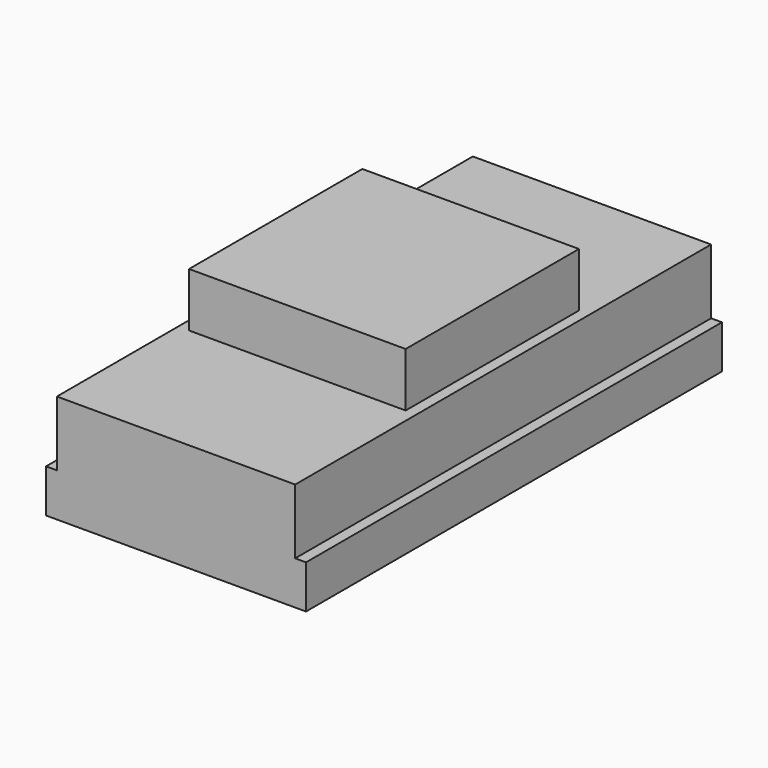
from build123d import *

# Parameters (mm, degrees)
SKETCH_W             = 1219.2
SKETCH_H             = 609.6
PAD_DEPTH            = 101.6
SKETCH001_W          = 1219.2
SKETCH001_H          = 558.8
PAD001_DEPTH         = 152.4
SKETCH002_W          = 508
SKETCH002_H          = 508
PAD002_DEPTH         = 127
BODY_PLACEMENT_ANGLE = 90


with BuildPart() as part:
    # Sketch → Pad (new body)
    with BuildSketch(Plane.XY):
        with Locations((609.6, 304.8)):
            Rectangle(SKETCH_W, SKETCH_H)
    extrude(amount=PAD_DEPTH)

    # Sketch001 (on Face6 of Pad) → Pad001 (join)
    with BuildSketch(Plane.XY.offset(101.6)):
        with Locations((609.6, 304.8)):
            Rectangle(SKETCH001_W, SKETCH001_H)
    extrude(amount=PAD001_DEPTH)

    # Sketch002 (on Face12 of Pad001) → Pad002 (join)
    with BuildSketch(Plane.XY.offset(254)):
        with Locations((609.6, 304.8)):
            Rectangle(SKETCH002_W, SKETCH002_H)
    extrude(amount=PAD002_DEPTH)


with BuildPart() as part_1:
    # Body placement: moved
    add(part.part.moved(Location((-307.6575, 1219.2, 2458.9105))).rotate(Axis((-307.6575, 1219.2, 2458.9105), (0, 0, 1)), BODY_PLACEMENT_ANGLE))


solid = part_1.part
